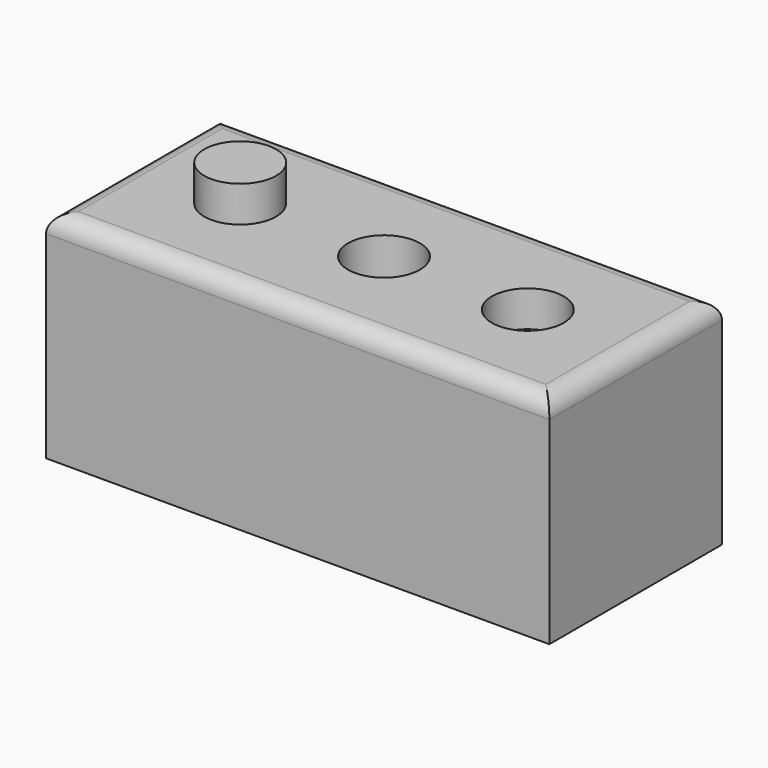
from build123d import *

# Parameters (mm, degrees)
F0_W     = 140
F0_H     = 60
F3_DEPTH = 60
F1_R     = 10
F4_DEPTH = 70
F2_R     = 10
F5_DEPTH = 120.3
F6_R     = 10
F7_DEPTH = 10
F8_R     = 5


with BuildPart() as f3:
    # F0 (on Top) → F3 (new body)
    with BuildSketch(Plane.XY):
        Rectangle(F0_W, F0_H)
    extrude(amount=F3_DEPTH)

    # F1 (on face) → F4 (join)
    with BuildSketch(Plane.XY):
        with Locations((-40, 0)):
            Circle(F1_R)
    extrude(amount=F4_DEPTH)

    # F2 (on face) → F5 (cut)
    with BuildSketch(Plane.XY):
        Circle(F2_R)
    extrude(amount=F5_DEPTH, mode=Mode.SUBTRACT)

    # F6 (on face) → F7 (cut)
    with BuildSketch(Plane.XY.offset(60)):
        with Locations((40, 0)):
            Circle(F6_R)
    extrude(amount=-F7_DEPTH, mode=Mode.SUBTRACT)

    # F8
    f8_edges = [f3.edges().sort_by_distance(p)[0] for p in [
        (0, 30, 60),
        (-70, 0, 60),
        (0, -30, 60),
        (70, 0, 60),
    ]]
    fillet(f8_edges, radius=F8_R)


solid = f3.part
